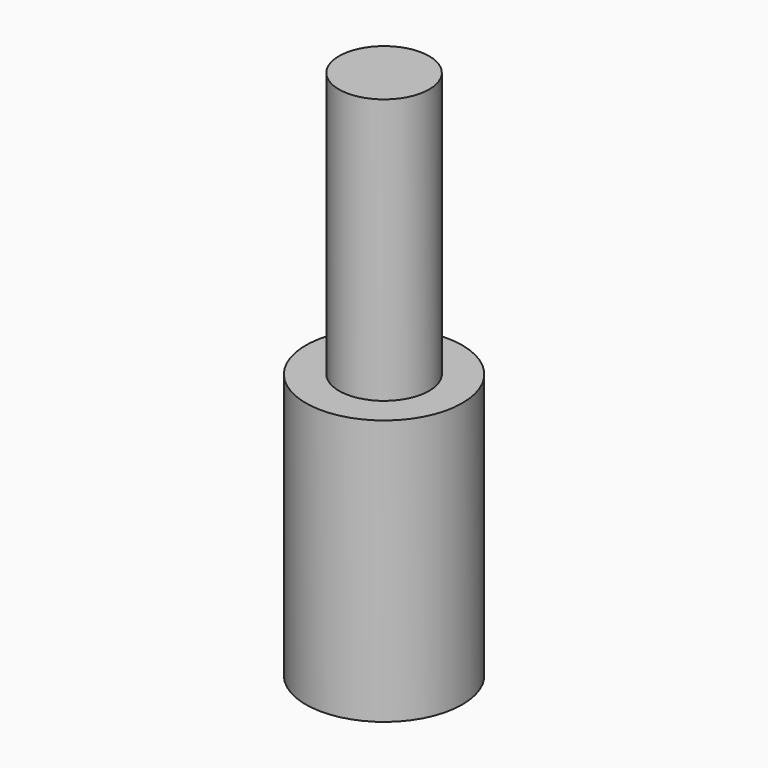
from build123d import *

# Parameters (mm, degrees)
CYLINDER1036_R     = 2.95
CYLINDER1036_DEPTH = 10
CYLINDER1037_R     = 1.7
CYLINDER1037_DEPTH = 10


with BuildPart() as cylinder1078:
    # Cylinder1036 → Cylinder1036 (new body)
    with BuildSketch(Plane.XY):
        Circle(CYLINDER1036_R)
    extrude(amount=CYLINDER1036_DEPTH)


with BuildPart() as m3boltshort:
    # Cylinder1037 → Cylinder1037 (new body)
    with BuildSketch(Plane.XY.offset(10)):
        Circle(CYLINDER1037_R)
    extrude(amount=CYLINDER1037_DEPTH)

    # Fusion114: union Cylinder1078
    add(cylinder1078.part)


solid = m3boltshort.part
